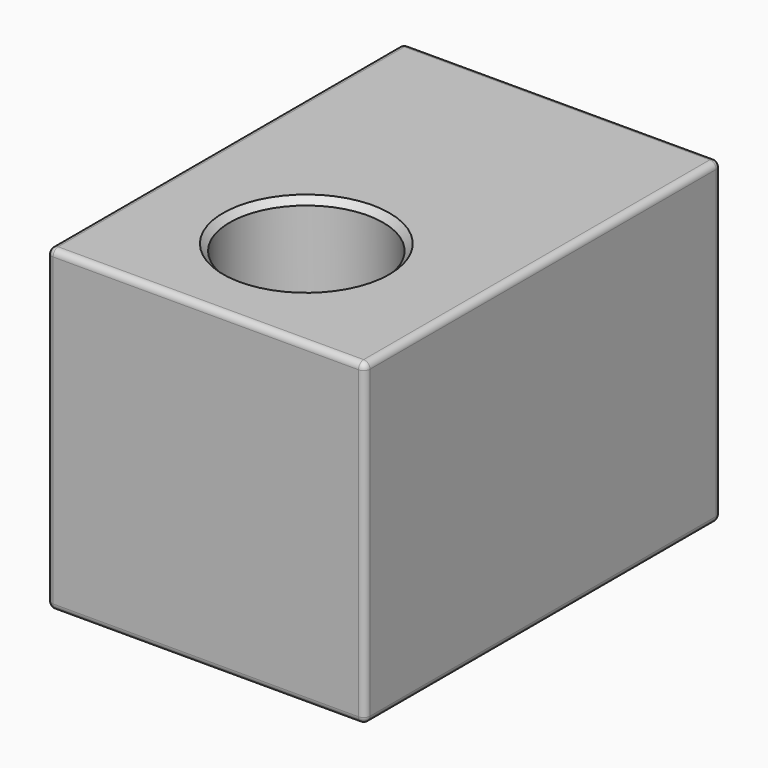
from build123d import *

# Parameters (mm, degrees)
F0_W     = 254
F0_H     = 355.6
F1_DEPTH = 254
F2_R     = 5.08
F3_R     = 61.292809
F4_DEPTH = 254.001
F5_SIZE  = 5.08


with BuildPart() as f1:
    # F0 (on Top) → F1 (new body)
    with BuildSketch(Plane.XY):
        with Locations((127, 177.8)):
            Rectangle(F0_W, F0_H)
    extrude(amount=F1_DEPTH)

    # F2
    f2_edges = [f1.edges().sort_by_distance(p)[0] for p in [
        (254, 0, 127),
        (254, 355.6, 127),
        (0, 0, 127),
        (0, 177.8, 0),
        (127, 355.6, 0),
        (127, 0, 0),
        (254, 177.8, 0),
        (0, 355.6, 127),
        (0, 177.8, 254),
        (127, 355.6, 254),
        (254, 177.8, 254),
        (127, 0, 254),
    ]]
    fillet(f2_edges, radius=F2_R)

    # F3 (on face) → F4 (cut, through all)
    with BuildSketch(Plane.XY.offset(254)):
        with Locations((123.2237, 104.999602)):
            Circle(F3_R)
    extrude(amount=-F4_DEPTH, mode=Mode.SUBTRACT)

    # F5
    f5_edges = [f1.edges().sort_by_distance(p)[0] for p in [
        (61.930891, 104.999602, 254),
        (61.930891, 104.999602, 0),
    ]]
    chamfer(f5_edges, length=F5_SIZE)


solid = f1.part
